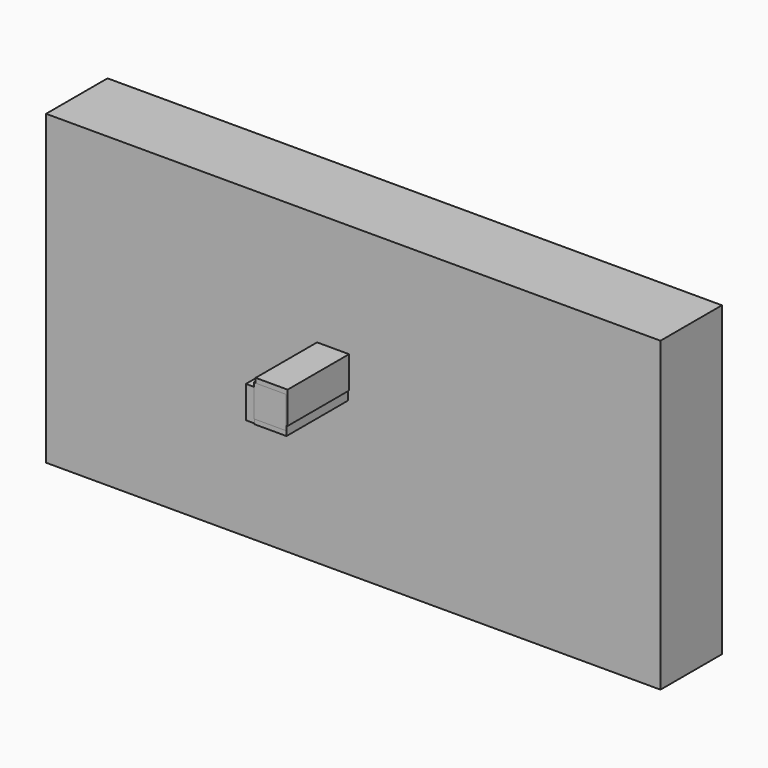
from build123d import *

# Parameters (mm, degrees)
F0_W     = 2438.4
F0_H     = 1219.2
F1_DEPTH = 304.8
F2_W     = 127
F2_H     = 127
F6_DEPTH = 609.6
F3_W     = 127
F3_H     = 127
F7_DEPTH = 609.6
F5_W     = 127
F5_H     = 127
F8_DEPTH = 609.6
F4_W     = 127
F4_H     = 127
F9_DEPTH = 609.6


with BuildPart() as f1:
    # F0 (on Front) → F1 (new body)
    with BuildSketch(Plane.XZ):
        Rectangle(F0_W, F0_H)
    extrude(amount=F1_DEPTH)


with BuildPart() as f6:
    # F2 (on Front) → F6 (new body)
    with BuildSketch(Plane.XZ):
        with Locations((-80.242533, 97.205307)):
            Rectangle(F2_W, F2_H)
    extrude(amount=F6_DEPTH)


with BuildPart() as f7:
    # F3 (on Front) → F7 (new body)
    with BuildSketch(Plane.XZ):
        with Locations((-118.89429, 63.5)):
            Rectangle(F3_W, F3_H)
    extrude(amount=F7_DEPTH)


with BuildPart() as f8:
    # F5 (on Front) → F8 (new body)
    with BuildSketch(Plane.XZ):
        with Locations((-84.702347, 60.492218)):
            Rectangle(F5_W, F5_H)
    extrude(amount=F8_DEPTH)


with BuildPart() as f9:
    # F4 (on Front) → F9 (new body)
    with BuildSketch(Plane.XZ):
        with Locations((-87.426376, 78.68013)):
            Rectangle(F4_W, F4_H)
    extrude(amount=F9_DEPTH)


solid = Compound([f1.part, f6.part, f7.part, f8.part, f9.part])
